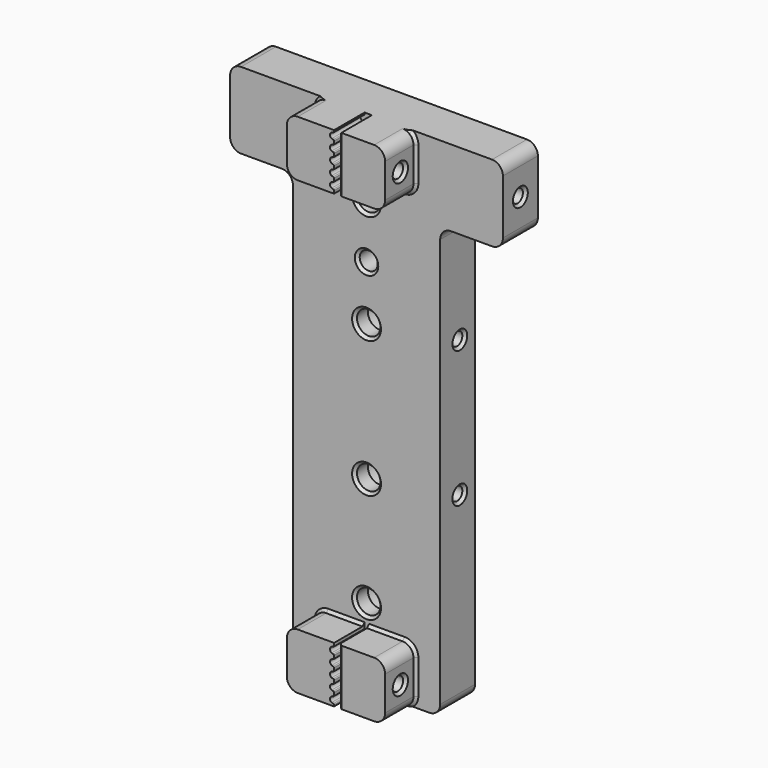
from build123d import *

# Parameters (mm, degrees)
F0_R      = 2.15
F0_R_2    = 1.65
F1_DEPTH  = 4
F3_DEPTH  = 7
F4_R      = 1.2
F5_DEPTH  = 50.001
F6_R      = 1.2
F7_DEPTH  = 13.5
F8_R      = 3.25
F9_DEPTH  = 5
F10_R     = 1.65
F11_DEPTH = 2.4
F12_R     = 2
F13_R     = 1.25
F14_DEPTH = 8.524
F15_SIZE  = 0.5


with BuildPart() as f1:
    # F0 (on Front) → F1 (new body, symmetric)
    with BuildSketch(Plane.XZ):
        Polygon((-13.5, -86), (13.5, -86), (13.5, -7), (25, -7), (25, 7), (-25, 7), (-25, -7), (-13.5, -7), align=None)
        with Locations((0, -72)):
            Circle(F0_R, mode=Mode.SUBTRACT)
        with Locations((0, -52)):
            Circle(F0_R, mode=Mode.SUBTRACT)
        with Locations((0, -27)):
            Circle(F0_R, mode=Mode.SUBTRACT)
        with Locations((0, -17)):
            Circle(F0_R_2, mode=Mode.SUBTRACT)
        with Locations((0, -7)):
            Circle(F0_R, mode=Mode.SUBTRACT)
    extrude(amount=F1_DEPTH, both=True)

    # F2 (on face) → F3 (join)
    with BuildSketch(Plane.XZ.offset(4)):
        Polygon((9, 7), (0.476, 7), (0.476, 6), (0.476, 5), (0.476, 4), (0.476, 3), (0.476, 2), (0.476, 1), (0.476, 0), (0.476, -1), (0.476, -2), (0.476, -3), (0.476, -3.2598245749), (9, -3.2598245749), align=None)
        with BuildLine():
            Line((-0.354, 6.7401754251), (-0.354, 7))
            Line((-0.354, 7), (-9, 7))
            Line((-9, 7), (-9, -3.2598245749))
            Line((-9, -3.2598245749), (-0.354, -3.2598245749))
            Line((-0.354, -3.2598245749), (-0.354, -3))
            Line((-0.354, -3), (-0.354, -2.7401754251))
            ThreePointArc((-0.354, -2.7401754251), (-0.3912285883, -2.6412683541), (-0.4844347826, -2.5914568914))
            ThreePointArc((-0.4844347826, -2.5914568914), (-0.642062154, -2.5576117143), (-0.7922022472, -2.4988764045))
            ThreePointArc((-0.7922022472, -2.4988764045), (-1.0196390587, -2.2941494117), (-1.104, -2))
            ThreePointArc((-1.104, -2), (-1.0196390587, -1.7058505883), (-0.7922022472, -1.5011235955))
            ThreePointArc((-0.7922022472, -1.5011235955), (-0.642062154, -1.4423882857), (-0.4844347826, -1.4085431086))
            ThreePointArc((-0.4844347826, -1.4085431086), (-0.3912285883, -1.3587316459), (-0.354, -1.2598245749))
            Line((-0.354, -1.2598245749), (-0.354, -1))
            Line((-0.354, -1), (-0.354, -0.7401754251))
            ThreePointArc((-0.354, -0.7401754251), (-0.3912285883, -0.6412683541), (-0.4844347826, -0.5914568914))
            ThreePointArc((-0.4844347826, -0.5914568914), (-0.642062154, -0.5576117143), (-0.7922022472, -0.4988764045))
            ThreePointArc((-0.7922022472, -0.4988764045), (-1.0196390587, -0.2941494117), (-1.104, 0))
            ThreePointArc((-1.104, 0), (-1.0196390587, 0.2941494117), (-0.7922022472, 0.4988764045))
            ThreePointArc((-0.7922022472, 0.4988764045), (-0.642062154, 0.5576117143), (-0.4844347826, 0.5914568914))
            ThreePointArc((-0.4844347826, 0.5914568914), (-0.3912285883, 0.6412683541), (-0.354, 0.7401754251))
            Line((-0.354, 0.7401754251), (-0.354, 1))
            Line((-0.354, 1), (-0.354, 1.2598245749))
            ThreePointArc((-0.354, 1.2598245749), (-0.3912285883, 1.3587316459), (-0.4844347826, 1.4085431086))
            ThreePointArc((-0.4844347826, 1.4085431086), (-0.642062154, 1.4423882857), (-0.7922022472, 1.5011235955))
            ThreePointArc((-0.7922022472, 1.5011235955), (-1.0196390587, 1.7058505883), (-1.104, 2))
            ThreePointArc((-1.104, 2), (-1.0196390587, 2.2941494117), (-0.7922022472, 2.4988764045))
            ThreePointArc((-0.7922022472, 2.4988764045), (-0.642062154, 2.5576117143), (-0.4844347826, 2.5914568914))
            ThreePointArc((-0.4844347826, 2.5914568914), (-0.3912285883, 2.6412683541), (-0.354, 2.7401754251))
            Line((-0.354, 2.7401754251), (-0.354, 3))
            Line((-0.354, 3), (-0.354, 3.2598245749))
            ThreePointArc((-0.354, 3.2598245749), (-0.3912285883, 3.3587316459), (-0.4844347826, 3.4085431086))
            ThreePointArc((-0.4844347826, 3.4085431086), (-0.642062154, 3.4423882857), (-0.7922022472, 3.5011235955))
            ThreePointArc((-0.7922022472, 3.5011235955), (-1.0196390587, 3.7058505883), (-1.104, 4))
            ThreePointArc((-1.104, 4), (-1.0196390587, 4.2941494117), (-0.7922022472, 4.4988764045))
            ThreePointArc((-0.7922022472, 4.4988764045), (-0.642062154, 4.5576117143), (-0.4844347826, 4.5914568914))
            ThreePointArc((-0.4844347826, 4.5914568914), (-0.3912285883, 4.6412683541), (-0.354, 4.7401754251))
            Line((-0.354, 4.7401754251), (-0.354, 5))
            Line((-0.354, 5), (-0.354, 5.2598245749))
            ThreePointArc((-0.354, 5.2598245749), (-0.3912285883, 5.3587316459), (-0.4844347826, 5.4085431086))
            ThreePointArc((-0.4844347826, 5.4085431086), (-0.642062154, 5.4423882857), (-0.7922022472, 5.5011235955))
            ThreePointArc((-0.7922022472, 5.5011235955), (-1.0196390587, 5.7058505883), (-1.104, 6))
            ThreePointArc((-1.104, 6), (-1.0196390587, 6.2941494117), (-0.7922022472, 6.4988764045))
            ThreePointArc((-0.7922022472, 6.4988764045), (-0.642062154, 6.5576117143), (-0.4844347826, 6.5914568914))
            ThreePointArc((-0.4844347826, 6.5914568914), (-0.3912285883, 6.6412683541), (-0.354, 6.7401754251))
        make_face()
        with BuildLine():
            Line((-0.354, -84), (-0.354, -83.7401754251))
            ThreePointArc((-0.354, -83.7401754251), (-0.3912285883, -83.6412683541), (-0.4844347826, -83.5914568914))
            ThreePointArc((-0.4844347826, -83.5914568914), (-0.642062154, -83.5576117143), (-0.7922022472, -83.4988764045))
            ThreePointArc((-0.7922022472, -83.4988764045), (-1.0196390587, -83.2941494117), (-1.104, -83))
            ThreePointArc((-1.104, -83), (-1.0196390587, -82.7058505883), (-0.7922022472, -82.5011235955))
            ThreePointArc((-0.7922022472, -82.5011235955), (-0.642062154, -82.4423882857), (-0.4844347826, -82.4085431086))
            ThreePointArc((-0.4844347826, -82.4085431086), (-0.3912285883, -82.3587316459), (-0.354, -82.2598245749))
            Line((-0.354, -82.2598245749), (-0.354, -82))
            Line((-0.354, -82), (-0.354, -81.7401754251))
            ThreePointArc((-0.354, -81.7401754251), (-0.3912285883, -81.6412683541), (-0.4844347826, -81.5914568914))
            ThreePointArc((-0.4844347826, -81.5914568914), (-0.642062154, -81.5576117143), (-0.7922022472, -81.4988764045))
            ThreePointArc((-0.7922022472, -81.4988764045), (-1.0196390587, -81.2941494117), (-1.104, -81))
            ThreePointArc((-1.104, -81), (-1.0196390587, -80.7058505883), (-0.7922022472, -80.5011235955))
            ThreePointArc((-0.7922022472, -80.5011235955), (-0.642062154, -80.4423882857), (-0.4844347826, -80.4085431086))
            ThreePointArc((-0.4844347826, -80.4085431086), (-0.3912285883, -80.3587316459), (-0.354, -80.2598245749))
            Line((-0.354, -80.2598245749), (-0.354, -80))
            Line((-0.354, -80), (-0.354, -79.7401754251))
            ThreePointArc((-0.354, -79.7401754251), (-0.3912285883, -79.6412683541), (-0.4844347826, -79.5914568914))
            ThreePointArc((-0.4844347826, -79.5914568914), (-0.642062154, -79.5576117143), (-0.7922022472, -79.4988764045))
            ThreePointArc((-0.7922022472, -79.4988764045), (-1.0196390587, -79.2941494117), (-1.104, -79))
            ThreePointArc((-1.104, -79), (-1.0196390587, -78.7058505883), (-0.7922022472, -78.5011235955))
            ThreePointArc((-0.7922022472, -78.5011235955), (-0.642062154, -78.4423882857), (-0.4844347826, -78.4085431086))
            ThreePointArc((-0.4844347826, -78.4085431086), (-0.3912285883, -78.3587316459), (-0.354, -78.2598245749))
            Line((-0.354, -78.2598245749), (-0.354, -78))
            Line((-0.354, -78), (-0.354, -77.7401754251))
            ThreePointArc((-0.354, -77.7401754251), (-0.3912285883, -77.6412683541), (-0.4844347826, -77.5914568914))
            ThreePointArc((-0.4844347826, -77.5914568914), (-0.642062154, -77.5576117143), (-0.7922022472, -77.4988764045))
            ThreePointArc((-0.7922022472, -77.4988764045), (-1.0196390587, -77.2941494117), (-1.104, -77))
            ThreePointArc((-1.104, -77), (-1.0196390587, -76.7058505883), (-0.7922022472, -76.5011235955))
            ThreePointArc((-0.7922022472, -76.5011235955), (-0.642062154, -76.4423882857), (-0.4844347826, -76.4085431086))
            ThreePointArc((-0.4844347826, -76.4085431086), (-0.3912285883, -76.3587316459), (-0.354, -76.2598245749))
            Line((-0.354, -76.2598245749), (-0.354, -76))
            Line((-0.354, -76), (-0.354, -75.7401754251))
            Line((-0.354, -75.7401754251), (-9, -75.7401754251))
            Line((-9, -75.7401754251), (-9, -86))
            Line((-9, -86), (-0.354, -86))
            Line((-0.354, -86), (-0.354, -85.7401754251))
            ThreePointArc((-0.354, -85.7401754251), (-0.3912285883, -85.6412683541), (-0.4844347826, -85.5914568914))
            ThreePointArc((-0.4844347826, -85.5914568914), (-0.642062154, -85.5576117143), (-0.7922022472, -85.4988764045))
            ThreePointArc((-0.7922022472, -85.4988764045), (-1.0196390587, -85.2941494117), (-1.104, -85))
            ThreePointArc((-1.104, -85), (-1.0196390587, -84.7058505883), (-0.7922022472, -84.5011235955))
            ThreePointArc((-0.7922022472, -84.5011235955), (-0.642062154, -84.4423882857), (-0.4844347826, -84.4085431086))
            ThreePointArc((-0.4844347826, -84.4085431086), (-0.3912285883, -84.3587316459), (-0.354, -84.2598245749))
            Line((-0.354, -84.2598245749), (-0.354, -84))
        make_face()
        Polygon((0.476, -75.7401754251), (0.476, -76), (0.476, -77), (0.476, -78), (0.476, -79), (0.476, -80), (0.476, -81), (0.476, -82), (0.476, -83), (0.476, -84), (0.476, -85), (0.476, -86), (9, -86), (9, -75.7401754251), align=None)
    extrude(amount=F3_DEPTH)

    # F4 (on face) → F5 (cut, through all)
    with BuildSketch(Plane.YZ.offset(25)):
        Circle(F4_R)
    extrude(amount=-F5_DEPTH, mode=Mode.SUBTRACT)

    # F6 (on face) → F7 (cut)
    with BuildSketch(Plane.YZ.offset(13.5)):
        with Locations((0.5, -27)):
            Circle(F6_R)
        with Locations((0.5, -52)):
            Circle(F6_R)
    extrude(amount=-F7_DEPTH, mode=Mode.SUBTRACT)

    # F8 (on face) → F9 (cut)
    with BuildSketch(Plane(origin=(0, 4, 0), x_dir=(-1, 0, 0), z_dir=(0, 1, 0))):
        with Locations((0, -7)):
            Circle(F8_R)
        with Locations((0, -27)):
            Circle(F8_R)
        with Locations((0, -52)):
            Circle(F8_R)
        with Locations((0, -72)):
            Circle(F8_R)
    extrude(amount=-F9_DEPTH, mode=Mode.SUBTRACT)

    # F10 (on face) → F11 (cut)
    with BuildSketch(Plane(origin=(0, 4, 0), x_dir=(-1, 0, 0), z_dir=(0, 1, 0))):
        Polygon((-1.6454482672, -14.15), (-3.2908965344, -17), (-1.6454482672, -19.85), (1.6454482672, -19.85), (3.2908965344, -17), (1.6454482672, -14.15), align=None)
        with Locations((0, -17)):
            Circle(F10_R, mode=Mode.SUBTRACT)
    extrude(amount=-F11_DEPTH, mode=Mode.SUBTRACT)

    # F12
    f12_edges = [f1.edges().sort_by_distance(p)[0] for p in [
        (-13.5, 0, -86),
        (13.5, 0, -86),
        (9, -7.5, -86),
        (-9, -7.5, -86),
        (9, -7.5, -3.259825),
        (-9, -7.5, -3.259825),
        (25, 0, -7),
        (13.5, 0, -7),
        (9, -7.5, -75.740175),
        (-9, -7.5, -75.740175),
        (-13.5, 0, -7),
        (-25, 0, -7),
        (-25, 0, 7),
        (25, 0, 7),
        (9, -7.5, 7),
        (-9, -7.5, 7),
    ]]
    fillet(f12_edges, radius=F12_R)

    # F13 (on face) → F14 (cut, through all)
    with BuildSketch(Plane.YZ.offset(9)):
        with Locations((-7.5, 1.8700877125)):
            Circle(F13_R)
        with Locations((-7.5, -80.8700877125)):
            Circle(F13_R)
    extrude(amount=-F14_DEPTH, mode=Mode.SUBTRACT)

    # F15 (call 1 of 19: OpenCascade refuses the feature's edges together)
    f15_edges = [f1.edges().sort_by_distance(p)[0] for p in [
        (-25, -1.2, 0),
    ]]
    chamfer(f15_edges, length=F15_SIZE)

    # F15#2 (call 2 of 19)
    f15_2_edges = [f1.edges().sort_by_distance(p)[0] for p in [
        (25, -1.2, 0),
    ]]
    chamfer(f15_2_edges, length=F15_SIZE)

    # F15#3 (call 3 of 19)
    f15_3_edges = [f1.edges().sort_by_distance(p)[0] for p in [
        (9, -8.75, 1.870088),
    ]]
    chamfer(f15_3_edges, length=F15_SIZE)

    # F15#4 (call 4 of 19)
    f15_4_edges = [f1.edges().sort_by_distance(p)[0] for p in [
        (13.5, -0.7, -27),
    ]]
    chamfer(f15_4_edges, length=F15_SIZE)

    # F15#5 (call 5 of 19)
    f15_5_edges = [f1.edges().sort_by_distance(p)[0] for p in [
        (13.5, -0.7, -52),
    ]]
    chamfer(f15_5_edges, length=F15_SIZE)

    # F15#6 (call 6 of 19)
    f15_6_edges = [f1.edges().sort_by_distance(p)[0] for p in [
        (9, -8.75, -80.870088),
    ]]
    chamfer(f15_6_edges, length=F15_SIZE)

    # F15#7 (call 7 of 19)
    f15_7_edges = [f1.edges().sort_by_distance(p)[0] for p in [
        (0.476, -11, 1.870088),
        (0.476, -7.5, 7),
    ]]
    chamfer(f15_7_edges, length=F15_SIZE)

    # F15#8 (call 8 of 19)
    f15_8_edges = [f1.edges().sort_by_distance(p)[0] for p in [
        (0.476, -8.75, 1.870088),
    ]]
    chamfer(f15_8_edges, length=F15_SIZE)

    # F15#9 (call 9 of 19)
    f15_9_edges = [f1.edges().sort_by_distance(p)[0] for p in [
        (0.476, -7.5, -86),
        (0.476, -11, -80.870088),
    ]]
    chamfer(f15_9_edges, length=F15_SIZE)

    # F15#10 (call 10 of 19)
    f15_10_edges = [f1.edges().sort_by_distance(p)[0] for p in [
        (0.476, -8.75, -80.870088),
    ]]
    chamfer(f15_10_edges, length=F15_SIZE)

    # F15#11 (call 11 of 19)
    f15_11_edges = [f1.edges().sort_by_distance(p)[0] for p in [
        (-2.15, -4, -7),
    ]]
    chamfer(f15_11_edges, length=F15_SIZE)

    # F15#12 (call 12 of 19)
    f15_12_edges = [f1.edges().sort_by_distance(p)[0] for p in [
        (-1.65, -4, -17),
    ]]
    chamfer(f15_12_edges, length=F15_SIZE)

    # F15#13 (call 13 of 19)
    f15_13_edges = [f1.edges().sort_by_distance(p)[0] for p in [
        (-2.15, -4, -27),
    ]]
    chamfer(f15_13_edges, length=F15_SIZE)

    # F15#14 (call 14 of 19)
    f15_14_edges = [f1.edges().sort_by_distance(p)[0] for p in [
        (-2.15, -4, -52),
    ]]
    chamfer(f15_14_edges, length=F15_SIZE)

    # F15#15 (call 15 of 19)
    f15_15_edges = [f1.edges().sort_by_distance(p)[0] for p in [
        (-2.15, -4, -72),
    ]]
    chamfer(f15_15_edges, length=F15_SIZE)

    # F15#16 (call 16 of 19)
    f15_16_edges = [f1.edges().sort_by_distance(p)[0] for p in [
        (8.414214, -4, 6.414214),
    ]]
    chamfer(f15_16_edges, length=F15_SIZE)

    # F15#17 (call 17 of 19)
    f15_17_edges = [f1.edges().sort_by_distance(p)[0] for p in [
        (-8.414214, -4, -2.674038),
    ]]
    chamfer(f15_17_edges, length=F15_SIZE)

    # F15#18 (call 18 of 19)
    f15_18_edges = [f1.edges().sort_by_distance(p)[0] for p in [
        (-8.414214, -4, -76.325962),
    ]]
    chamfer(f15_18_edges, length=F15_SIZE)

    # F15#19 (call 19 of 19)
    f15_19_edges = [f1.edges().sort_by_distance(p)[0] for p in [
        (8.414214, -4, -76.325962),
    ]]
    chamfer(f15_19_edges, length=F15_SIZE)


solid = f1.part
